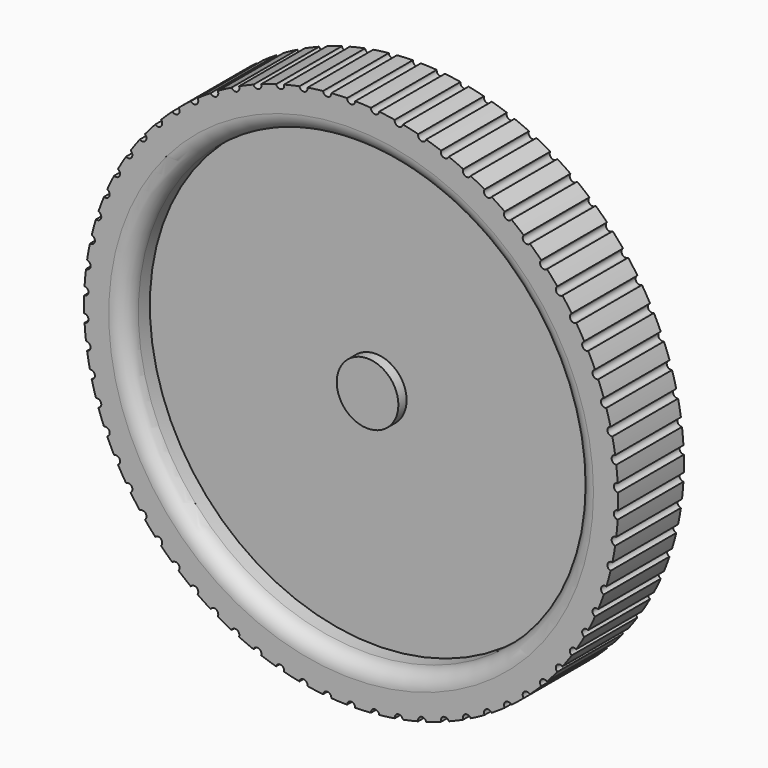
from build123d import *

# Parameters (mm, degrees)
F0_R     = 22.225
F0_R_2   = 19.05
F1_DEPTH = 6.35
F2_R     = 9.525
F3_DEPTH = 25.4
F2_R_2   = 22.225
F2_R_3   = 19.05
F4_DEPTH = 6.35
F5_DEPTH = 3.175
F6_R     = 69.85
F7_DEPTH = 12.7
F6_R_2   = 9.525
F8_DEPTH = 3.175
F9_DEPTH = 6.35
F10_R    = 5.08


with BuildPart() as f1:
    # F0 (on Front) → F1 (new body)
    with BuildSketch(Plane.XZ):
        Circle(F0_R)
        Circle(F0_R_2, mode=Mode.SUBTRACT)
    extrude(amount=F1_DEPTH)



with BuildPart() as f3:
    # F2 (on face) → F3 (new body)
    with BuildSketch(Plane.XZ.offset(6.35)):
        Circle(F2_R)
    extrude(amount=F3_DEPTH)


with BuildPart() as f1_1:
    add(f1.part)

    add(f3.part)  # F4 merges F3
    # F2 (on face) → F4 (join)
    with BuildSketch(Plane.XZ.offset(6.35)):
        Circle(F2_R_2)
        Circle(F2_R_3, mode=Mode.SUBTRACT)
        Circle(F2_R_3)
        Circle(F2_R, mode=Mode.SUBTRACT)
    extrude(amount=-F4_DEPTH)

    # F2 (on face) → F5 (join)
    with BuildSketch(Plane.XZ.offset(6.35)):
        Circle(F2_R)
    extrude(amount=-F5_DEPTH)



with BuildPart() as f7:
    # F6 (on face) → F7 (new body, symmetric)
    with BuildSketch(Plane.XZ.offset(31.75)):
        with BuildLine():
            ThreePointArc((82.514094898, -2.4344697927), (82.5410232364, -1.217367277), (82.55, 0))
            ThreePointArc((82.55, 0), (82.5410232364, 1.217367277), (82.514094898, 2.4344697927))
            ThreePointArc((82.514094898, 2.4344697927), (81.1981564485, 3.6466134109), (82.4001416004, 4.9718371084))
            ThreePointArc((82.4001416004, 4.9718371084), (82.2176779693, 7.39972495), (81.9636932209, 9.8211757745))
            ThreePointArc((81.9636932209, 9.8211757745), (80.5443966365, 10.9104798457), (81.6227508132, 12.3381137005))
            ThreePointArc((81.6227508132, 12.3381137005), (81.2233875388, 14.7398716656), (80.7533680799, 17.1288074237))
            ThreePointArc((80.7533680799, 17.1288074237), (79.2421407021, 18.086501512), (80.1881816298, 19.6050510558))
            ThreePointArc((80.1881816298, 19.6050510558), (79.5751341504, 21.9613416015), (78.8928643013, 24.2985279871))
            ThreePointArc((78.8928643013, 24.2985279871), (77.3018736445, 25.1169013028), (78.1079843579, 26.7141400675))
            ThreePointArc((78.1079843579, 26.7141400675), (77.2861885713, 29.0059917279), (76.3971615676, 31.2726110905))
            ThreePointArc((76.3971615676, 31.2726110905), (74.739217353, 31.9450745728), (75.3989075226, 33.6081425311))
            ThreePointArc((75.3989075226, 33.6081425311), (74.3749800453, 35.8171026642), (73.2863538098, 37.9949055173))
            ThreePointArc((73.2863538098, 37.9949055173), (71.5748048293, 38.5160448858), (72.0827630179, 40.2315519923))
            ThreePointArc((72.0827630179, 40.2315519923), (70.8649479118, 42.3398353499), (69.5854874227, 44.4112873056))
            ThreePointArc((69.5854874227, 44.4112873056), (67.8341140625, 44.7769066524), (68.1862504892, 46.5310406527))
            ThreePointArc((68.1862504892, 46.5310406527), (66.7843528857, 48.5216725767), (65.3243596066, 50.4700955219))
            ThreePointArc((65.3243596066, 50.4700955219), (63.547262895, 50.6772510951), (63.7407423645, 52.4558887335))
            ThreePointArc((63.7407423645, 52.4558887335), (62.1660495186, 54.3128418263), (60.537278457, 56.122548205))
            ThreePointArc((60.537278457, 56.122548205), (58.7487665319, 56.1695721097), (58.7820312613, 57.9583928418))
            ThreePointArc((58.7820312613, 57.9583928418), (57.0472216739, 59.666716009), (55.2627867366, 61.3231351294))
            ThreePointArc((55.2627867366, 61.3231351294), (53.4772596444, 61.2096487568), (53.3500418056, 62.9942500499))
            ThreePointArc((53.3500418056, 62.9942500499), (51.4690831434, 64.5401888777), (49.5433515514, 66.0299842273))
            ThreePointArc((49.5433515514, 66.0299842273), (47.7751853063, 65.7569013028), (47.4885091825, 67.5229145966))
            ThreePointArc((47.4885091825, 67.5229145966), (45.4765458189, 68.8940220947), (43.4250224305, 70.2051987171))
            ThreePointArc((43.4250224305, 70.2051987171), (41.6884532676, 69.774717944), (41.2446270064, 71.5079243378))
            ThreePointArc((41.2446270064, 71.5079243378), (39.1178580871, 72.6931611548), (36.9570605625, 73.8151622269))
            ThreePointArc((36.9570605625, 73.8151622269), (35.2660703155, 73.2307495831), (34.668667345, 74.9171943183))
            ThreePointArc((34.668667345, 74.9171943183), (32.444216363, 75.9070176241), (30.1915421733, 76.830809453))
            ThreePointArc((30.1915421733, 76.830809453), (28.5597457013, 76.0971702856), (27.813575959, 77.7232751006))
            ThreePointArc((27.813575959, 77.7232751006), (25.5093528857, 78.5097154202), (23.1829392388, 79.2278601771))
            ThreePointArc((23.1829392388, 79.2278601771), (21.6234748077, 78.3509013174), (20.7345460135, 79.9035737725))
            ThreePointArc((20.7345460135, 79.9035737725), (18.3691030981, 80.4802991506), (15.987680909, 80.9870147564))
            ThreePointArc((15.987680909, 80.9870147564), (14.5131044092, 79.9737969613), (13.4885736953, 81.4405358508))
            ThreePointArc((13.4885736953, 81.4405358508), (11.0809560932, 81.8029028339), (8.663699173, 82.0941095124))
            ThreePointArc((8.663699173, 82.0941095124), (7.2858830277, 80.9527906159), (6.1339993128, 82.3217866207))
            ThreePointArc((6.1339993128, 82.3217866207), (3.7035917454, 82.466877643), (1.2699624255, 82.5402307692))
            ThreePointArc((1.2699624255, 82.5402307692), (0, 81.28), (-1.2699624255, 82.5402307692))
            ThreePointArc((-1.2699624255, 82.5402307692), (-3.7035917454, 82.466877643), (-6.1339993128, 82.3217866207))
            ThreePointArc((-6.1339993128, 82.3217866207), (-7.2858830277, 80.9527906159), (-8.663699173, 82.0941095124))
            ThreePointArc((-8.663699173, 82.0941095124), (-11.0809560932, 81.8029028339), (-13.4885736953, 81.4405358508))
            ThreePointArc((-13.4885736953, 81.4405358508), (-14.5131044092, 79.9737969613), (-15.987680909, 80.9870147564))
            ThreePointArc((-15.987680909, 80.9870147564), (-18.3691030981, 80.4802991506), (-20.7345460135, 79.9035737725))
            ThreePointArc((-20.7345460135, 79.9035737725), (-21.6234748077, 78.3509013174), (-23.1829392388, 79.2278601771))
            ThreePointArc((-23.1829392388, 79.2278601771), (-25.5093528857, 78.5097154202), (-27.813575959, 77.7232751006))
            ThreePointArc((-27.813575959, 77.7232751006), (-28.5597457013, 76.0971702856), (-30.1915421733, 76.830809453))
            ThreePointArc((-30.1915421733, 76.830809453), (-32.444216363, 75.9070176241), (-34.668667345, 74.9171943183))
            ThreePointArc((-34.668667345, 74.9171943183), (-35.2660703155, 73.2307495831), (-36.9570605625, 73.8151622269))
            ThreePointArc((-36.9570605625, 73.8151622269), (-39.1178580871, 72.6931611548), (-41.2446270064, 71.5079243378))
            ThreePointArc((-41.2446270064, 71.5079243378), (-41.6884532676, 69.774717944), (-43.4250224305, 70.2051987171))
            ThreePointArc((-43.4250224305, 70.2051987171), (-45.4765458189, 68.8940220947), (-47.4885091825, 67.5229145966))
            ThreePointArc((-47.4885091825, 67.5229145966), (-47.7751853063, 65.7569013028), (-49.5433515514, 66.0299842273))
            ThreePointArc((-49.5433515514, 66.0299842273), (-51.4690831434, 64.5401888777), (-53.3500418056, 62.9942500499))
            ThreePointArc((-53.3500418056, 62.9942500499), (-53.4772596444, 61.2096487568), (-55.2627867366, 61.3231351294))
            ThreePointArc((-55.2627867366, 61.3231351294), (-57.0472216739, 59.666716009), (-58.7820312613, 57.9583928418))
            ThreePointArc((-58.7820312613, 57.9583928418), (-58.7487665319, 56.1695721097), (-60.537278457, 56.122548205))
            ThreePointArc((-60.537278457, 56.122548205), (-62.1660495186, 54.3128418263), (-63.7407423645, 52.4558887335))
            ThreePointArc((-63.7407423645, 52.4558887335), (-63.547262895, 50.6772510951), (-65.3243596066, 50.4700955219))
            ThreePointArc((-65.3243596066, 50.4700955219), (-66.7843528857, 48.5216725767), (-68.1862504892, 46.5310406527))
            ThreePointArc((-68.1862504892, 46.5310406527), (-67.8341140625, 44.7769066524), (-69.5854874227, 44.4112873056))
            ThreePointArc((-69.5854874227, 44.4112873056), (-70.8649479118, 42.3398353499), (-72.0827630179, 40.2315519923))
            ThreePointArc((-72.0827630179, 40.2315519923), (-71.5748048293, 38.5160448858), (-73.2863538098, 37.9949055173))
            ThreePointArc((-73.2863538098, 37.9949055173), (-74.3749800453, 35.8171026642), (-75.3989075226, 33.6081425311))
            ThreePointArc((-75.3989075226, 33.6081425311), (-74.739217353, 31.9450745728), (-76.3971615676, 31.2726110905))
            ThreePointArc((-76.3971615676, 31.2726110905), (-77.2861885713, 29.0059917279), (-78.1079843579, 26.7141400675))
            ThreePointArc((-78.1079843579, 26.7141400675), (-77.3018736445, 25.1169013028), (-78.8928643013, 24.2985279871))
            ThreePointArc((-78.8928643013, 24.2985279871), (-79.5751341504, 21.9613416015), (-80.1881816298, 19.6050510558))
            ThreePointArc((-80.1881816298, 19.6050510558), (-79.2421407021, 18.086501512), (-80.7533680799, 17.1288074237))
            ThreePointArc((-80.7533680799, 17.1288074237), (-81.2233875388, 14.7398716656), (-81.6227508132, 12.3381137005))
            ThreePointArc((-81.6227508132, 12.3381137005), (-80.5443966365, 10.9104798457), (-81.9636932209, 9.8211757745))
            ThreePointArc((-81.9636932209, 9.8211757745), (-82.2176779693, 7.39972495), (-82.4001416004, 4.9718371084))
            ThreePointArc((-82.4001416004, 4.9718371084), (-81.1981564485, 3.6466134109), (-82.514094898, 2.4344697927))
            ThreePointArc((-82.514094898, 2.4344697927), (-82.55, 0), (-82.514094898, -2.4344697927))
            ThreePointArc((-82.514094898, -2.4344697927), (-81.1981564485, -3.6466134109), (-82.4001416004, -4.9718371084))
            ThreePointArc((-82.4001416004, -4.9718371084), (-82.2176779693, -7.39972495), (-81.9636932209, -9.8211757745))
            ThreePointArc((-81.9636932209, -9.8211757745), (-80.5443966365, -10.9104798457), (-81.6227508132, -12.3381137005))
            ThreePointArc((-81.6227508132, -12.3381137005), (-81.2233875388, -14.7398716656), (-80.7533680799, -17.1288074237))
            ThreePointArc((-80.7533680799, -17.1288074237), (-79.2421407021, -18.086501512), (-80.1881816298, -19.6050510558))
            ThreePointArc((-80.1881816298, -19.6050510558), (-79.5751341504, -21.9613416015), (-78.8928643013, -24.2985279871))
            ThreePointArc((-78.8928643013, -24.2985279871), (-77.3018736445, -25.1169013028), (-78.1079843579, -26.7141400675))
            ThreePointArc((-78.1079843579, -26.7141400675), (-77.2861885713, -29.0059917279), (-76.3971615676, -31.2726110905))
            ThreePointArc((-76.3971615676, -31.2726110905), (-74.739217353, -31.9450745728), (-75.3989075226, -33.6081425311))
            ThreePointArc((-75.3989075226, -33.6081425311), (-74.3749800453, -35.8171026642), (-73.2863538098, -37.9949055173))
            ThreePointArc((-73.2863538098, -37.9949055173), (-71.5748048293, -38.5160448858), (-72.0827630179, -40.2315519923))
            ThreePointArc((-72.0827630179, -40.2315519923), (-70.8649479118, -42.3398353499), (-69.5854874227, -44.4112873056))
            ThreePointArc((-69.5854874227, -44.4112873056), (-67.8341140625, -44.7769066524), (-68.1862504892, -46.5310406527))
            ThreePointArc((-68.1862504892, -46.5310406527), (-66.7843528857, -48.5216725767), (-65.3243596066, -50.4700955219))
            ThreePointArc((-65.3243596066, -50.4700955219), (-63.547262895, -50.6772510951), (-63.7407423645, -52.4558887335))
            ThreePointArc((-63.7407423645, -52.4558887335), (-62.1660495186, -54.3128418263), (-60.537278457, -56.122548205))
            ThreePointArc((-60.537278457, -56.122548205), (-58.7487665319, -56.1695721097), (-58.7820312613, -57.9583928418))
            ThreePointArc((-58.7820312613, -57.9583928418), (-57.0472216739, -59.666716009), (-55.2627867366, -61.3231351294))
            ThreePointArc((-55.2627867366, -61.3231351294), (-53.4772596444, -61.2096487568), (-53.3500418056, -62.9942500499))
            ThreePointArc((-53.3500418056, -62.9942500499), (-51.4690831434, -64.5401888777), (-49.5433515514, -66.0299842273))
            ThreePointArc((-49.5433515514, -66.0299842273), (-47.7751853063, -65.7569013028), (-47.4885091825, -67.5229145966))
            ThreePointArc((-47.4885091825, -67.5229145966), (-45.4765458189, -68.8940220947), (-43.4250224305, -70.2051987171))
            ThreePointArc((-43.4250224305, -70.2051987171), (-41.6884532676, -69.774717944), (-41.2446270064, -71.5079243378))
            ThreePointArc((-41.2446270064, -71.5079243378), (-39.1178580871, -72.6931611548), (-36.9570605625, -73.8151622269))
            ThreePointArc((-36.9570605625, -73.8151622269), (-35.2660703155, -73.2307495831), (-34.668667345, -74.9171943183))
            ThreePointArc((-34.668667345, -74.9171943183), (-32.444216363, -75.9070176241), (-30.1915421733, -76.830809453))
            ThreePointArc((-30.1915421733, -76.830809453), (-28.5597457013, -76.0971702856), (-27.813575959, -77.7232751006))
            ThreePointArc((-27.813575959, -77.7232751006), (-25.5093528857, -78.5097154202), (-23.1829392388, -79.2278601771))
            ThreePointArc((-23.1829392388, -79.2278601771), (-21.6234748077, -78.3509013174), (-20.7345460135, -79.9035737725))
            ThreePointArc((-20.7345460135, -79.9035737725), (-18.3691030981, -80.4802991506), (-15.987680909, -80.9870147564))
            ThreePointArc((-15.987680909, -80.9870147564), (-14.5131044092, -79.9737969613), (-13.4885736953, -81.4405358508))
            ThreePointArc((-13.4885736953, -81.4405358508), (-11.0809560932, -81.8029028339), (-8.663699173, -82.0941095124))
            ThreePointArc((-8.663699173, -82.0941095124), (-7.2858830277, -80.9527906159), (-6.1339993128, -82.3217866207))
            ThreePointArc((-6.1339993128, -82.3217866207), (-3.7035917454, -82.466877643), (-1.2699624255, -82.5402307692))
            ThreePointArc((-1.2699624255, -82.5402307692), (0, -81.28), (1.2699624255, -82.5402307692))
            ThreePointArc((1.2699624255, -82.5402307692), (3.7035917454, -82.466877643), (6.1339993128, -82.3217866207))
            ThreePointArc((6.1339993128, -82.3217866207), (7.2858830277, -80.9527906159), (8.663699173, -82.0941095124))
            ThreePointArc((8.663699173, -82.0941095124), (11.0809560932, -81.8029028339), (13.4885736953, -81.4405358508))
            ThreePointArc((13.4885736953, -81.4405358508), (14.5131044092, -79.9737969613), (15.987680909, -80.9870147564))
            ThreePointArc((15.987680909, -80.9870147564), (18.3691030981, -80.4802991506), (20.7345460135, -79.9035737725))
            ThreePointArc((20.7345460135, -79.9035737725), (21.6234748077, -78.3509013174), (23.1829392388, -79.2278601771))
            ThreePointArc((23.1829392388, -79.2278601771), (25.5093528857, -78.5097154202), (27.813575959, -77.7232751006))
            ThreePointArc((27.813575959, -77.7232751006), (28.5597457013, -76.0971702856), (30.1915421733, -76.830809453))
            ThreePointArc((30.1915421733, -76.830809453), (32.444216363, -75.9070176241), (34.668667345, -74.9171943183))
            ThreePointArc((34.668667345, -74.9171943183), (35.2660703155, -73.2307495831), (36.9570605625, -73.8151622269))
            ThreePointArc((36.9570605625, -73.8151622269), (39.1178580871, -72.6931611548), (41.2446270064, -71.5079243378))
            ThreePointArc((41.2446270064, -71.5079243378), (41.6884532676, -69.774717944), (43.4250224305, -70.2051987171))
            ThreePointArc((43.4250224305, -70.2051987171), (45.4765458189, -68.8940220947), (47.4885091825, -67.5229145966))
            ThreePointArc((47.4885091825, -67.5229145966), (47.7751853063, -65.7569013028), (49.5433515514, -66.0299842273))
            ThreePointArc((49.5433515514, -66.0299842273), (51.4690831434, -64.5401888777), (53.3500418056, -62.9942500499))
            ThreePointArc((53.3500418056, -62.9942500499), (53.4772596444, -61.2096487568), (55.2627867366, -61.3231351294))
            ThreePointArc((55.2627867366, -61.3231351294), (57.0472216739, -59.666716009), (58.7820312613, -57.9583928418))
            ThreePointArc((58.7820312613, -57.9583928418), (58.7487665319, -56.1695721097), (60.537278457, -56.122548205))
            ThreePointArc((60.537278457, -56.122548205), (62.1660495186, -54.3128418263), (63.7407423645, -52.4558887335))
            ThreePointArc((63.7407423645, -52.4558887335), (63.547262895, -50.6772510951), (65.3243596066, -50.4700955219))
            ThreePointArc((65.3243596066, -50.4700955219), (66.7843528857, -48.5216725767), (68.1862504892, -46.5310406527))
            ThreePointArc((68.1862504892, -46.5310406527), (67.8341140625, -44.7769066524), (69.5854874227, -44.4112873056))
            ThreePointArc((69.5854874227, -44.4112873056), (70.8649479118, -42.3398353499), (72.0827630179, -40.2315519923))
            ThreePointArc((72.0827630179, -40.2315519923), (71.5748048293, -38.5160448858), (73.2863538098, -37.9949055173))
            ThreePointArc((73.2863538098, -37.9949055173), (74.3749800453, -35.8171026642), (75.3989075226, -33.6081425311))
            ThreePointArc((75.3989075226, -33.6081425311), (74.739217353, -31.9450745728), (76.3971615676, -31.2726110905))
            ThreePointArc((76.3971615676, -31.2726110905), (77.2861885713, -29.0059917279), (78.1079843579, -26.7141400675))
            ThreePointArc((78.1079843579, -26.7141400675), (77.3018736445, -25.1169013028), (78.8928643013, -24.2985279871))
            ThreePointArc((78.8928643013, -24.2985279871), (79.5751341504, -21.9613416015), (80.1881816298, -19.6050510558))
            ThreePointArc((80.1881816298, -19.6050510558), (79.2421407021, -18.086501512), (80.7533680799, -17.1288074237))
            ThreePointArc((80.7533680799, -17.1288074237), (81.2233875388, -14.7398716656), (81.6227508132, -12.3381137005))
            ThreePointArc((81.6227508132, -12.3381137005), (80.5443966365, -10.9104798457), (81.9636932209, -9.8211757745))
            ThreePointArc((81.9636932209, -9.8211757745), (82.2176779693, -7.39972495), (82.4001416004, -4.9718371084))
            ThreePointArc((82.4001416004, -4.9718371084), (81.1981564485, -3.6466134109), (82.514094898, -2.4344697927))
        make_face()
        Circle(F6_R, mode=Mode.SUBTRACT)
    extrude(amount=F7_DEPTH, both=True)


with BuildPart() as f1_2:
    add(f1_1.part)

    add(f7.part)  # F8 merges F7
    # F6 (on face) → F8 (join, symmetric)
    with BuildSketch(Plane.XZ.offset(31.75)):
        Circle(F6_R)
        Circle(F6_R_2, mode=Mode.SUBTRACT)
    extrude(amount=F8_DEPTH, both=True)

    # F6 (on face) → F9 (join)
    with BuildSketch(Plane.XZ.offset(31.75)):
        Circle(F6_R_2)
    extrude(amount=F9_DEPTH)

    # F10
    f10_edges = [f1_2.edges().sort_by_distance(p)[0] for p in [
        (-69.85, -44.45, 0),
    ]]
    fillet(f10_edges, radius=F10_R)


solid = f1_2.part
